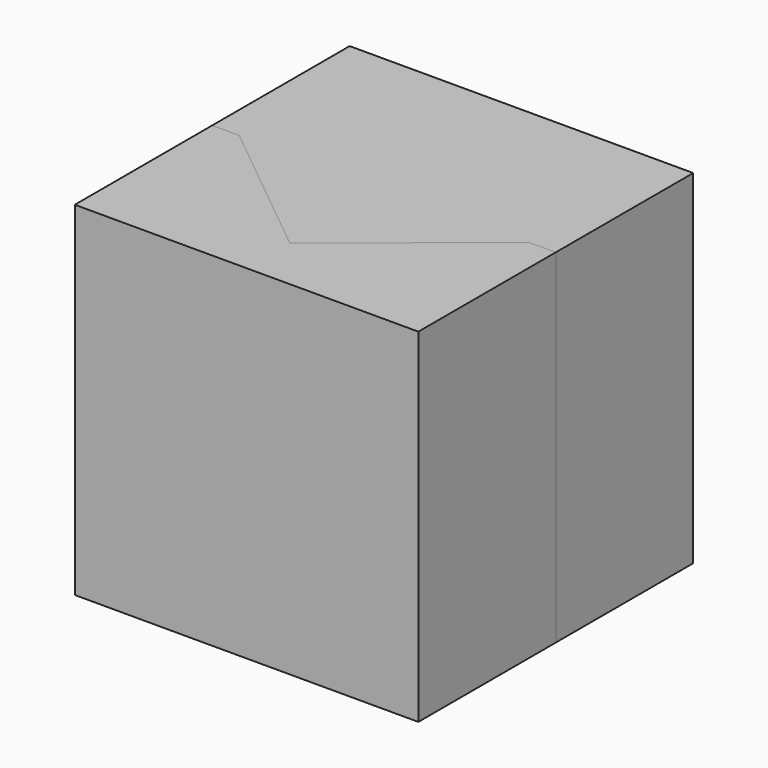
from build123d import *

# Parameters (mm, degrees)
F0_W     = 25.4
F0_H     = 12.7
F1_DEPTH = 25.4
F3_DEPTH = 25.401
F5_DEPTH = 25.4


with BuildPart() as f1:
    # F0 (on Top) → F1 (new body)
    with BuildSketch(Plane.XY):
        with Locations((12.7, 6.35)):
            Rectangle(F0_W, F0_H)
    extrude(amount=F1_DEPTH)

    # F2 (on face) → F3 (cut, through all)
    with BuildSketch(Plane.XY.offset(25.4)):
        Polygon((23.4, 12.7), (2, 12.7), (12.7, 4), align=None)
    extrude(amount=-F3_DEPTH, mode=Mode.SUBTRACT)


with BuildPart() as f5:
    # F4 (on Top) → F5 (new body)
    with BuildSketch(Plane.XY):
        Polygon((12.7, 4), (23.4, 12.7), (25.4, 12.7), (25.4, 25.4), (0, 25.4), (0, 12.7), (2, 12.7), align=None)
    extrude(amount=F5_DEPTH)


solid = Compound([f1.part, f5.part])
